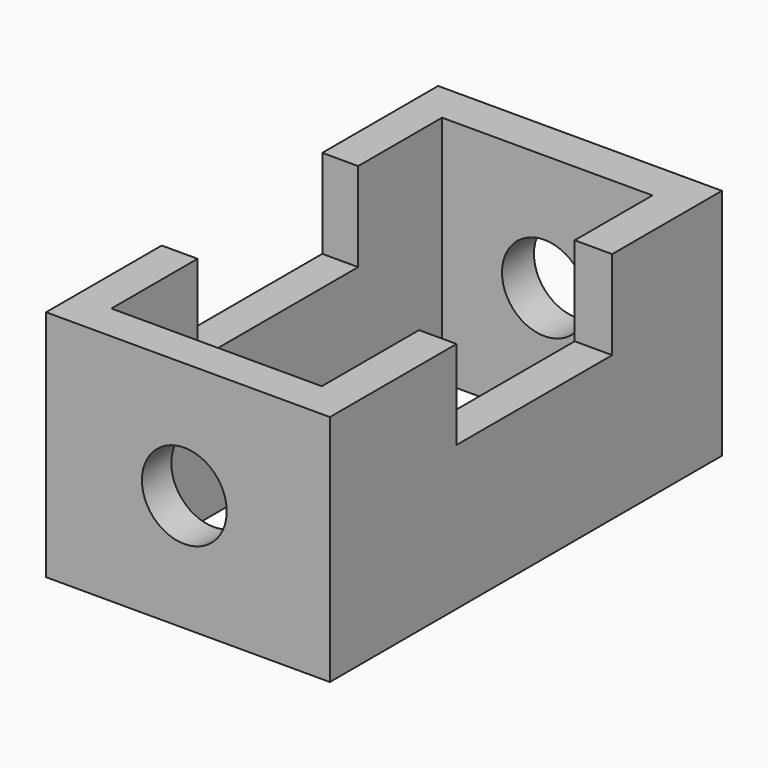
from build123d import *

# Parameters (mm, degrees)
F0_W     = 62.4194853008
F0_H     = 107.7802851796
F0_W_2   = 46.2748277932
F0_H_2   = 90.9063592553
F1_DEPTH = 51.308
F2_W     = 8.2461107522
F2_H     = 42.7914112806
F2_W_2   = 7.8985467553
F2_H_2   = 44.1445242614
F3_DEPTH = 19.558
F4_R     = 9.3280185705
F5_DEPTH = 152.4


with BuildPart() as f1:
    # F0 (on Top) → F1 (new body)
    with BuildSketch(Plane.XY):
        with Locations((-31.2097426504, -8.8457427919)):
            Rectangle(F0_W, F0_H)
        with Locations((-31.3835246488, -9.2003643513)):
            Rectangle(F0_W_2, F0_H_2, mode=Mode.SUBTRACT)
    extrude(amount=F1_DEPTH)

    # F2 (on face) → F3 (cut)
    with BuildSketch(Plane.XY.offset(51.308)):
        with Locations((-4.1230553761, -6.5223816782)):
            Rectangle(F2_W, F2_H)
        with Locations((-58.4702119231, -8.8798655197)):
            Rectangle(F2_W_2, F2_H_2)
    extrude(amount=-F3_DEPTH, mode=Mode.SUBTRACT)

    # F4 (on face) → F5 (cut)
    with BuildSketch(Plane(origin=(0, 45.0443997979, 0), x_dir=(-1, 0, 0), z_dir=(0, 1, 0))):
        with Locations((32.0103727281, 25.654)):
            Circle(F4_R)
    extrude(amount=-F5_DEPTH, mode=Mode.SUBTRACT)


solid = f1.part
